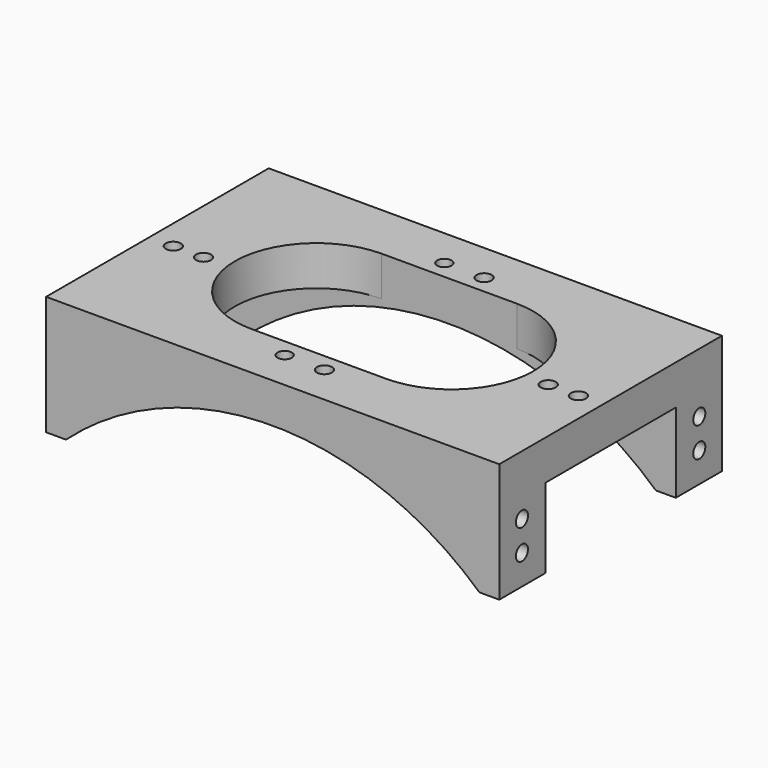
from build123d import *

# Parameters (mm, degrees)
SKETCH067_W     = 114
SKETCH067_H     = 70
PAD016_DEPTH    = 30
POCKET043_DEPTH = 30.001
POCKET044_DEPTH = 70.001
SKETCH070_W     = 41
SKETCH070_H     = 20
POCKET045_DEPTH = 114.001
SKETCH071_R     = 1.8
SKETCH071_R_2   = 1.9
POCKET046_DEPTH = 30.001
SKETCH072_R     = 1.9
POCKET047_DEPTH = 114.001
SKETCH073_R     = 4.5
POCKET048_DEPTH = 29
SKETCH074_R     = 4.5
POCKET049_DEPTH = 29
SKETCH075_R     = 1.9
POCKET050_DEPTH = 30.001


with BuildPart() as part:
    # Sketch067 → Pad016 (new body)
    with BuildSketch(Plane.XY):
        with Locations((57, 35)):
            Rectangle(SKETCH067_W, SKETCH067_H)
    extrude(amount=PAD016_DEPTH)

    # Sketch068 (on Face6 of Pad016) → Pocket043 (cut, through all)
    with BuildSketch(Plane.XY.offset(30)):
        with BuildLine():
            Line((40, 14.5), (74, 14.5))
            ThreePointArc((74, 14.5), (94.5, 35), (74, 55.5))
            Line((74, 55.5), (40, 55.5))
            ThreePointArc((40, 55.5), (19.5, 35), (40, 14.5))
        make_face()
    extrude(amount=-POCKET043_DEPTH, mode=Mode.SUBTRACT)

    # Sketch069 (on Face1 of Pocket043) → Pocket044 (cut, through all)
    with BuildSketch(Plane.XZ):
        with BuildLine():
            Line((5, 0), (109, 0))
            ThreePointArc((109, 0), (57, 20), (5, 0))
        make_face()
    extrude(amount=-POCKET044_DEPTH, mode=Mode.SUBTRACT)

    # Sketch070 (on Face7 of Pocket044) → Pocket045 (cut, through all)
    with BuildSketch(Plane(origin=(0, 0, 0), x_dir=(0, -1, 0), z_dir=(-1, 0, 0))):
        with Locations((-35, 10)):
            Rectangle(SKETCH070_W, SKETCH070_H)
    extrude(amount=-POCKET045_DEPTH, mode=Mode.SUBTRACT)

    # Sketch071 (on Face6 of Pocket045) → Pocket046 (cut, through all)
    with BuildSketch(Plane.XY.offset(30)):
        with Locations((52.1, 60.1)):
            Circle(SKETCH071_R)
        with Locations((62.1, 60.1)):
            Circle(SKETCH071_R_2)
        with Locations((52.1, 9.9)):
            Circle(SKETCH071_R)
        with Locations((62.1, 9.9)):
            Circle(SKETCH071_R_2)
    extrude(amount=-POCKET046_DEPTH, mode=Mode.SUBTRACT)

    # Sketch072 (on Face5 of Pocket046) → Pocket047 (cut, through all)
    with BuildSketch(Plane.YZ.offset(114)):
        with Locations((7.12, 15)):
            Circle(SKETCH072_R)
        with Locations((7.12, 7.5)):
            Circle(SKETCH072_R)
        with Locations((62.88, 15)):
            Circle(SKETCH072_R)
        with Locations((62.88, 7.5)):
            Circle(SKETCH072_R)
    extrude(amount=-POCKET047_DEPTH, mode=Mode.SUBTRACT)

    # Sketch073 (on DatumPlane) → Pocket048 (cut)
    with BuildSketch(Plane.YZ.offset(94)):
        with Locations((7.12, 15)):
            Circle(SKETCH073_R)
        with Locations((62.88, 15)):
            Circle(SKETCH073_R)
    extrude(amount=-POCKET048_DEPTH, mode=Mode.SUBTRACT)

    # Sketch074 (on DatumPlane) → Pocket049 (cut)
    with BuildSketch(Plane(origin=(20, 0, 0), x_dir=(0, -1, 0), z_dir=(-1, 0, 0))):
        with Locations((-62.88, 15)):
            Circle(SKETCH074_R)
        with Locations((-7.12, 15)):
            Circle(SKETCH074_R)
    extrude(amount=-POCKET049_DEPTH, mode=Mode.SUBTRACT)

    # Sketch075 (on Face6 of Pocket049) → Pocket050 (cut, through all)
    with BuildSketch(Plane.XY.offset(30)):
        with Locations((100.35, 32.44)):
            Circle(SKETCH075_R)
        with Locations((107.95, 32.44)):
            Circle(SKETCH075_R)
        with Locations((6.05, 32.44)):
            Circle(SKETCH075_R)
        with Locations((13.65, 32.44)):
            Circle(SKETCH075_R)
    extrude(amount=-POCKET050_DEPTH, mode=Mode.SUBTRACT)


with BuildPart() as part_1:
    # Body009 placement: moved
    add(part.part.moved(Location((18, 30, -2))))


solid = part_1.part
